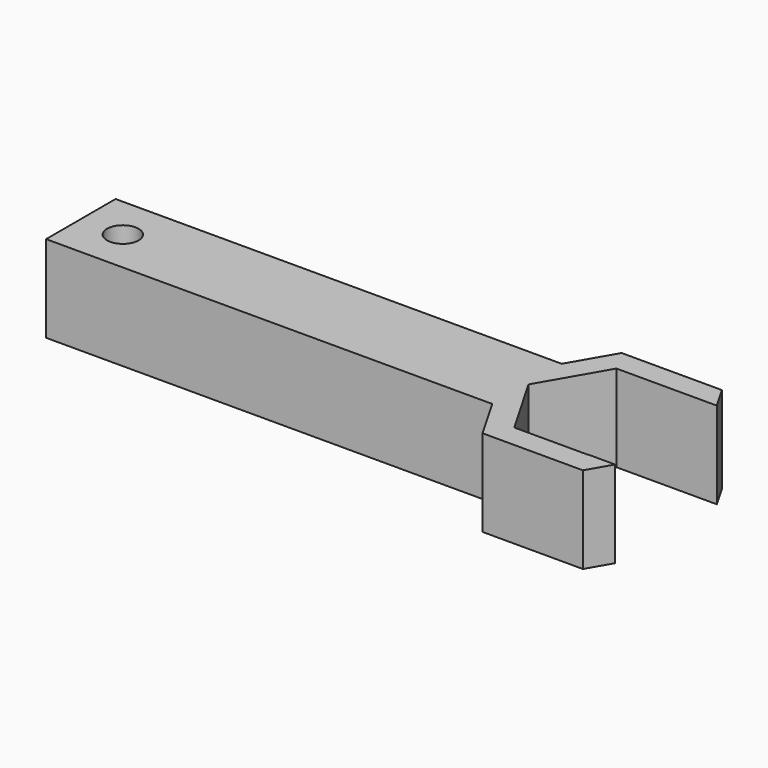
from build123d import *

# Parameters (mm, degrees)
F1_DEPTH = 12.7
F2_R     = 2.307044
F3_DEPTH = 25.4


with BuildPart() as f1:
    # F0 (on Top) → F1 (new body)
    with BuildSketch(Plane.XY):
        Polygon((26.526051, -17.544329), (-38.675426, -17.544329), (-38.675426, -30.244329), (26.526051, -30.244329), (30.192225, -36.594329), (44.856922, -36.594329), (46.829852, -33.177115), (42.944122, -33.177115), (42.914057, -33.229189), (32.13509, -33.229189), (26.745606, -23.894329), (32.13509, -14.55947), (42.914057, -14.55947), (46.799787, -14.55947), (44.856922, -11.194329), (30.192225, -11.194329), align=None)
    extrude(amount=F1_DEPTH)

    # F2 (on face) → F3 (cut)
    with BuildSketch(Plane.XY.offset(12.7)):
        with Locations((-32.535568, -23.894329)):
            Circle(F2_R)
    extrude(amount=-F3_DEPTH, mode=Mode.SUBTRACT)


solid = f1.part
